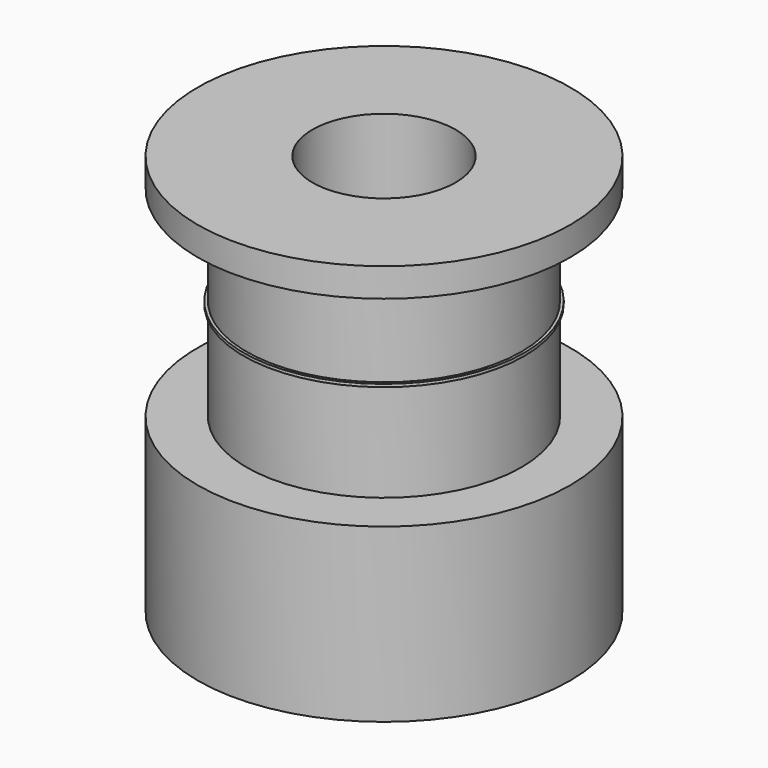
from build123d import *

# Parameters (mm, degrees)
F0_R      = 6.5
F1_DEPTH  = 6
F2_R      = 4.8
F3_DEPTH  = 7
F4_R      = 6.5
F4_R_2    = 4.8
F5_DEPTH  = 1
F6_R      = 2.5
F7_DEPTH  = 14.001
F9_R      = 4.9
F9_R_2    = 4.8
F10_DEPTH = 0.05


with BuildPart() as f1:
    # F0 (on Top) → F1 (new body)
    with BuildSketch(Plane.XY):
        Circle(F0_R)
    extrude(amount=F1_DEPTH)

    # F2 (on face) → F3 (join)
    with BuildSketch(Plane.XY.offset(6)):
        Circle(F2_R)
    extrude(amount=F3_DEPTH)

    # F4 (on face) → F5 (join)
    with BuildSketch(Plane.XY.offset(13)):
        Circle(F4_R)
        Circle(F4_R_2, mode=Mode.SUBTRACT)
        Circle(F4_R_2)
    extrude(amount=F5_DEPTH)

    # F6 (on face) → F7 (cut, through all)
    with BuildSketch(Plane.XY.offset(14)):
        Circle(F6_R)
    extrude(amount=-F7_DEPTH, mode=Mode.SUBTRACT)

    # F9 (on mid) → F10 (join, symmetric)
    with BuildSketch(Plane.XY.offset(9.5)):
        Circle(F9_R)
        Circle(F9_R_2, mode=Mode.SUBTRACT)
    extrude(amount=F10_DEPTH, both=True)


solid = f1.part
